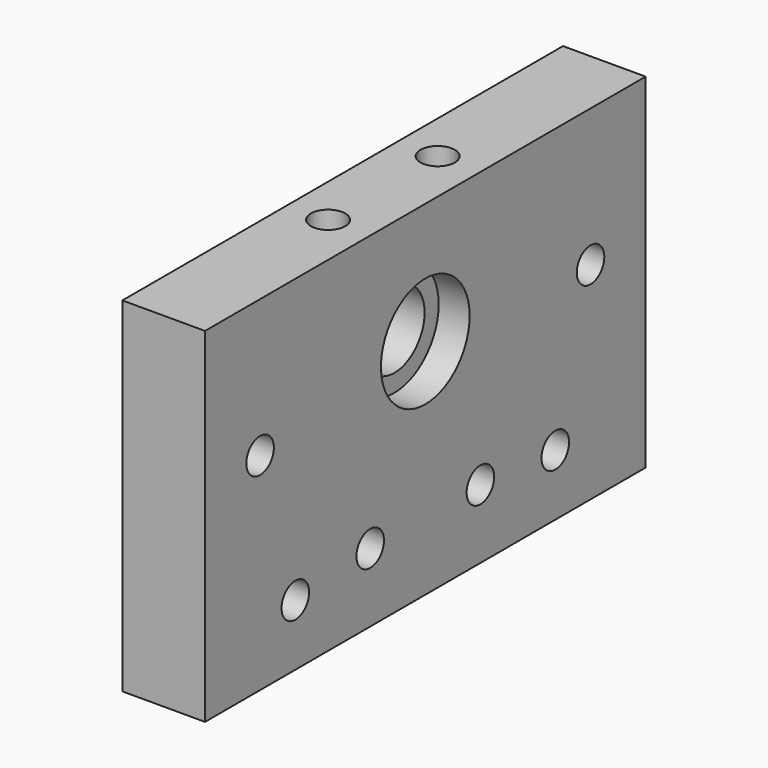
from build123d import *

# Parameters (mm, degrees)
SKETCH_W        = 80
SKETCH_H        = 50
SKETCH_R        = 2.5
SKETCH_R_2      = 5.5
PAD_DEPTH       = 12
SKETCH001_R     = 2.5
POCKET_DEPTH    = 11
SKETCH002_R     = 8.05
POCKET001_DEPTH = 4.5
SKETCH003_R     = 4.6
SKETCH003_R_2   = 4.624594
SKETCH003_R_3   = 4.583454
SKETCH003_R_4   = 4.624604
POCKET002_DEPTH = 1.55


with BuildPart() as part:
    # Sketch → Pad (new body)
    with BuildSketch(Plane.YZ):
        with Locations((40, 25)):
            Rectangle(SKETCH_W, SKETCH_H)
        with Locations((10, 30)):
            Circle(SKETCH_R, mode=Mode.SUBTRACT)
        with Locations((30, 10)):
            Circle(SKETCH_R, mode=Mode.SUBTRACT)
        with Locations((16.4, 8.9)):
            Circle(SKETCH_R, mode=Mode.SUBTRACT)
        with Locations((50, 10)):
            Circle(SKETCH_R, mode=Mode.SUBTRACT)
        with Locations((63.6, 8.9)):
            Circle(SKETCH_R, mode=Mode.SUBTRACT)
        with Locations((70, 30)):
            Circle(SKETCH_R, mode=Mode.SUBTRACT)
        with Locations((40, 32.4)):
            Circle(SKETCH_R_2, mode=Mode.SUBTRACT)
    extrude(amount=PAD_DEPTH)

    # Sketch001 → Pocket (cut)
    with BuildSketch(Plane(origin=(0, 0, 50), x_dir=(0, -1, 0), z_dir=(0, 0, 1))):
        with Locations((-30.033846, 5.850095)):
            Circle(SKETCH001_R)
        with Locations((-50.003807, 5.788844)):
            Circle(SKETCH001_R)
    extrude(amount=-POCKET_DEPTH, mode=Mode.SUBTRACT)

    # Sketch002 → Pocket001 (cut)
    with BuildSketch(Plane.YZ.offset(12)):
        with Locations((40, 32.4)):
            Circle(SKETCH002_R)
    extrude(amount=-POCKET001_DEPTH, mode=Mode.SUBTRACT)

    # Sketch003 → Pocket002 (cut)
    with BuildSketch(Plane(origin=(0, 0, 0), x_dir=(0, 1, 0), z_dir=(-1, 0, 0))):
        with Locations((10, -30)):
            Circle(SKETCH003_R)
        with Locations((70, -30)):
            Circle(SKETCH003_R_2)
        with Locations((30, -10)):
            Circle(SKETCH003_R_3)
        with Locations((50, -10)):
            Circle(SKETCH003_R_4)
    extrude(amount=-POCKET002_DEPTH, mode=Mode.SUBTRACT)


solid = part.part
